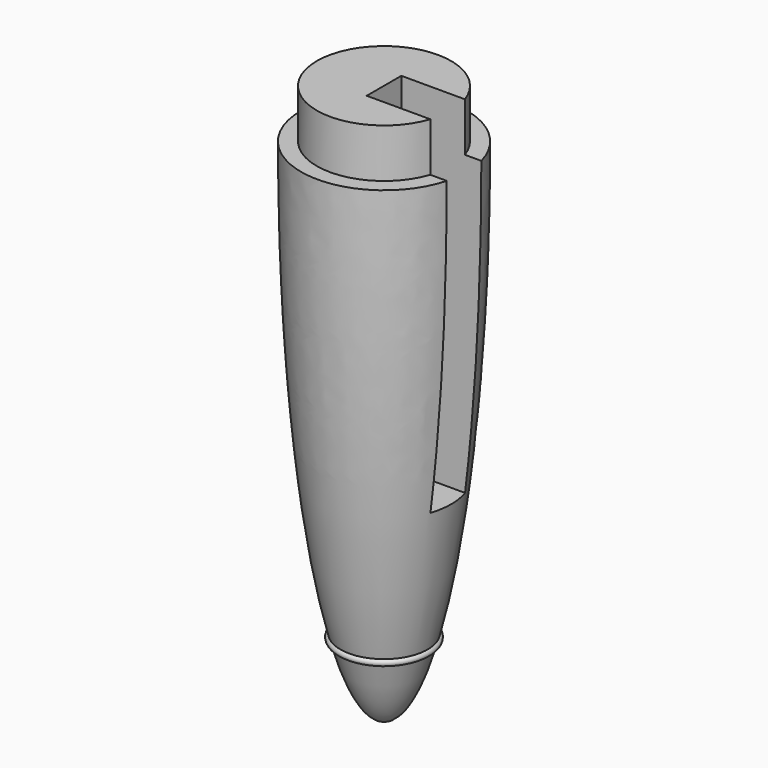
from build123d import *

# Parameters (mm, degrees)
F2_W     = 14.801774174
F2_H     = 17.4815300852
F3_DEPTH = 12.5
F5_W     = 4.1551380418
F5_H     = 14.0508930199
F7_DEPTH = 0.5


with BuildPart() as f1:
    # F0 (on Front) → F1 (revolve)
    with BuildSketch(Plane.XZ):
        with BuildLine():
            Line((-0.4280307109, 11.4827230744), (-0.4261488038, 11.4827230744))
            add(Edge.make_bspline(
                [(-0.4261488038, 11.4827230744), (-0.556664915, 11.2998342577), (-0.6817765252, 11.007238571)],
                knots=[0.2242103955, 0.2242103955, 0.2242103955, 0.3636698207, 0.3636698207, 0.3636698207], degree=2, weights=[1, 0.9975698685, 1]))
            ThreePointArc((-0.6817765252, 11.007238571), (-0.7788007209, 10.9669177702), (-0.7377063806, 10.8702186661))
            add(Edge.make_bspline(
                [(-0.7377063806, 10.8702186661), (-4.1805245814, 2.0482402355), (-1.0087089855, -10.0145657089)],
                knots=[0.3950853549, 0.3950853549, 0.3950853549, 2.5873747735, 2.5873747735, 2.5873747735], degree=2, weights=[1, 0.4570286054, 1]))
            ThreePointArc((-1.0087089855, -10.0145657089), (-1.0611021421, -10.1053598506), (-0.9701333294, -10.1574491407))
            add(Edge.make_bspline(
                [(-0.9701333294, -10.1574491407), (-0.5208925622, -11.7775146313), (0, -11.7775146313)],
                knots=[2.610875288, 2.610875288, 2.610875288, 3.1415926536, 3.1415926536, 3.1415926536], degree=2, weights=[1, 0.9649984965, 1]))
            Line((0, -11.7775146313), (0, 11.4827230744))
            Line((0, 11.4827230744), (0, 11.7775146313))
            Line((0, 11.7775146313), (0, 12.6633324179))
            Line((0, 12.6633324179), (0, 14.7848022901))
            Line((0, 14.7848022901), (0, 16.4847507584))
            Line((0, 16.4847507584), (0, 16.7663060129))
            Line((0, 16.7663060129), (-0.5209763767, 16.7663060129))
            Line((-0.5209763767, 16.7663060129), (-0.5209763767, 16.4847507584))
            Line((-0.5209763767, 16.4847507584), (-0.3074016407, 16.4847507584))
            Line((-0.3074016407, 16.4847507584), (-0.3074016407, 14.7848022901))
            Line((-0.3074016407, 14.7848022901), (-0.419876547, 14.7848022901))
            Line((-0.419876547, 14.7848022901), (-0.419876547, 12.6633324179))
            Line((-0.419876547, 12.6633324179), (-0.4280307109, 12.6633324179))
            Line((-0.4280307109, 12.6633324179), (-0.4280307109, 11.4827230744))
        make_face()
    revolve(axis=Axis((0, 0, 0), (0, 0, -1)))

    # F2 (on Front) → F3 (cut, symmetric)
    with BuildSketch(Plane.XZ):
        with Locations((2.1127695218, 8.7407650426)):
            Rectangle(F2_W, F2_H)
    extrude(amount=F3_DEPTH, both=True, mode=Mode.SUBTRACT)

    # F4 (on Front) → F6 (revolve)
    with BuildSketch(Plane.XZ):
        Polygon((0, 0), (0, 1.129917684), (-1.5530794626, 1.129917684), (-1.5530794626, 0), (-1.5530794626, -1.129917684), (0, -1.129917684), align=None)
    revolve(axis=Axis((0, 0, -0.564958842), (0, 0, -1)))

    # F5 (on Front) → F7 (cut, symmetric)
    with BuildSketch(Plane.XZ):
        with Locations((2.0775690209, 0.1454737503)):
            Rectangle(F5_W, F5_H)
    extrude(amount=F7_DEPTH, both=True, mode=Mode.SUBTRACT)


solid = f1.part
